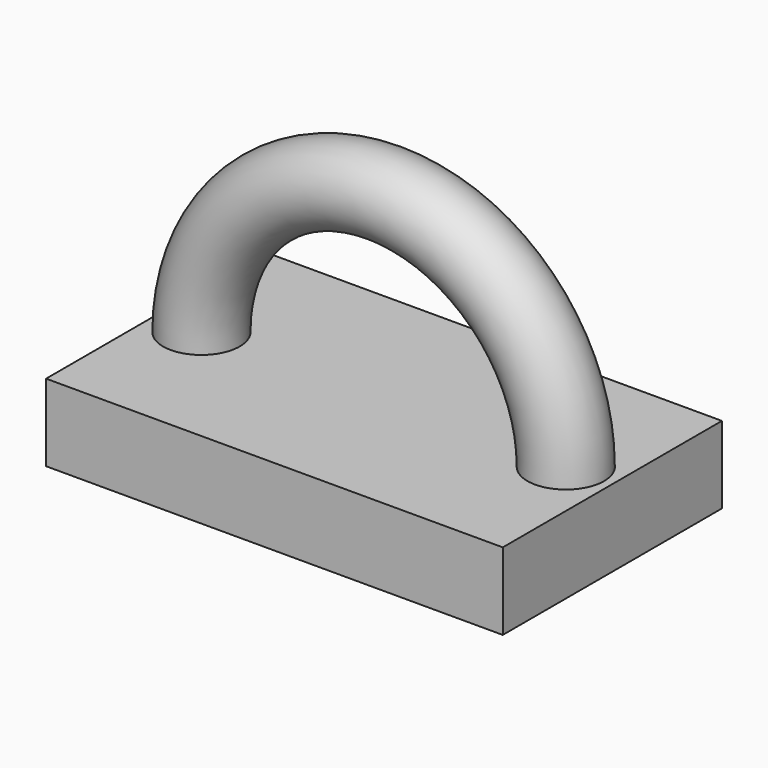
from build123d import *

# Parameters (mm, degrees)
F0_W     = 75.351886
F0_H     = 90.236254
F0_W_2   = 75.087629
F2_DEPTH = 25.4
F1_R     = 12.629289
F3_ANGLE = -180


with BuildPart() as f2:
    # F0 (on Top) → F2 (new body)
    with BuildSketch(Plane.XY):
        with Locations((37.675943, 0)):
            Rectangle(F0_W, F0_H)
        with Locations((-37.543814, 0)):
            Rectangle(F0_W_2, F0_H)
    extrude(amount=-F2_DEPTH)

    # F1 (on face) → F3 (revolve)
    with BuildSketch(Plane.XY):
        with Locations((60.014084, 0)):
            Circle(F1_R)
    revolve(axis=Axis((0, 0.875765, 0), (0, 1, 0)), revolution_arc=F3_ANGLE)


solid = f2.part
